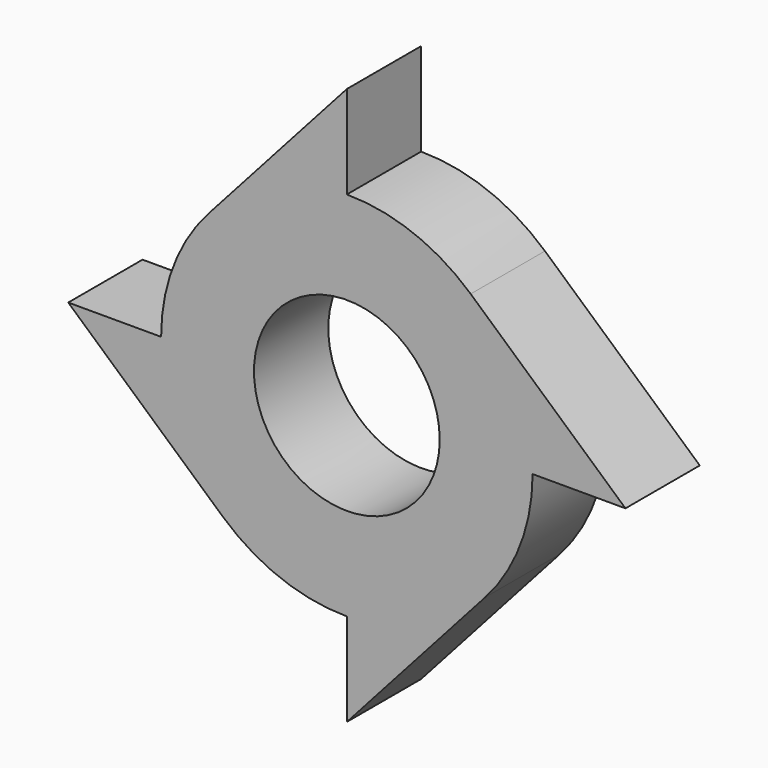
from build123d import *

# Parameters (mm, degrees)
F0_R     = 12.7
F1_DEPTH = 12.7


with BuildPart() as f1:
    # F0 (on Front) → F1 (new body)
    with BuildSketch(Plane.XZ):
        with BuildLine():
            ThreePointArc((18.932042, -16.933333), (23.727978, -9.063281), (25.4, 0))
            ThreePointArc((25.4, 0), (23.186922, 10.369507), (16.933333, 18.932042))
            ThreePointArc((16.933333, 18.932042), (9.063281, 23.727978), (0, 25.4))
            ThreePointArc((0, 25.4), (-10.369507, 23.186922), (-18.932042, 16.933333))
            ThreePointArc((-18.932042, 16.933333), (-23.727978, 9.063281), (-25.4, 0))
            ThreePointArc((-25.4, 0), (-23.186922, -10.369507), (-16.933333, -18.932042))
            ThreePointArc((-16.933333, -18.932042), (-9.063281, -23.727978), (0, -25.4))
            ThreePointArc((0, -25.4), (10.369507, -23.186922), (18.932042, -16.933333))
        make_face()
        Circle(F0_R, mode=Mode.SUBTRACT)
        with BuildLine():
            ThreePointArc((-18.932042, 16.933333), (-10.369507, 23.186922), (0, 25.4))
            Line((0, 25.4), (0, 38.1))
            Line((0, 38.1), (-18.932042, 16.933333))
        make_face()
        with BuildLine():
            ThreePointArc((16.933333, 18.932042), (23.186922, 10.369507), (25.4, 0))
            Line((25.4, 0), (38.1, 0))
            Line((38.1, 0), (16.933333, 18.932042))
        make_face()
        with BuildLine():
            Line((0, -38.1), (18.932042, -16.933333))
            ThreePointArc((18.932042, -16.933333), (10.369507, -23.186922), (0, -25.4))
            Line((0, -25.4), (0, -38.1))
        make_face()
        with BuildLine():
            Line((-38.1, 0), (-16.933333, -18.932042))
            ThreePointArc((-16.933333, -18.932042), (-23.186922, -10.369507), (-25.4, 0))
            Line((-25.4, 0), (-38.1, 0))
        make_face()
    extrude(amount=F1_DEPTH)


solid = f1.part
